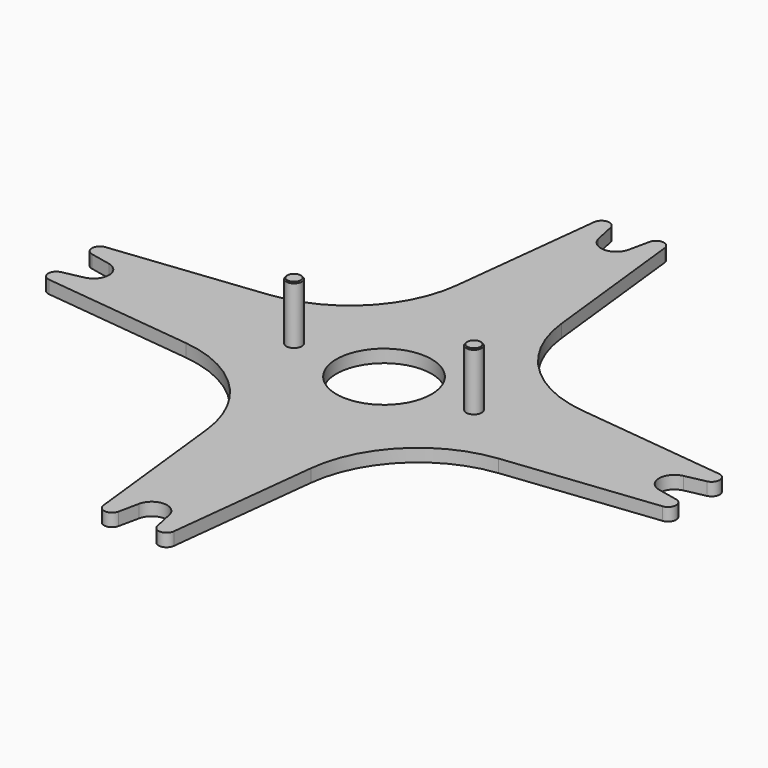
from build123d import *

# Parameters (mm, degrees)
F0_R     = 23.495
F1_DEPTH = 6.35
F2_R     = 3.81
F3_DEPTH = 28.575
F4_SIZE  = 0.508


with BuildPart() as f1:
    # F0 (on Top) → F1 (new body)
    with BuildSketch(Plane.XY):
        with BuildLine():
            ThreePointArc((-141.924887, 7.453309), (-135.89, 0), (-141.924887, -7.453309))
            Line((-141.924887, -7.453309), (-151.954259, -9.586279))
            ThreePointArc((-151.954259, -9.586279), (-155.087703, -13.654877), (-151.573483, -17.399504))
            Line((-151.573483, -17.399504), (-77.281462, -25.767059))
            ThreePointArc((-77.281462, -25.767059), (-42.510822, -42.510822), (-25.767059, -77.281462))
            Line((-25.767059, -77.281462), (-17.399504, -151.573483))
            ThreePointArc((-17.399504, -151.573483), (-13.654877, -155.087703), (-9.586279, -151.954259))
            Line((-9.586279, -151.954259), (-7.453309, -141.924887))
            ThreePointArc((-7.453309, -141.924887), (0, -135.89), (7.453309, -141.924887))
            Line((7.453309, -141.924887), (9.586279, -151.954259))
            ThreePointArc((9.586279, -151.954259), (13.654877, -155.087703), (17.399504, -151.573483))
            Line((17.399504, -151.573483), (25.767059, -77.281462))
            ThreePointArc((25.767059, -77.281462), (42.510822, -42.510822), (77.281462, -25.767059))
            Line((77.281462, -25.767059), (151.573483, -17.399504))
            ThreePointArc((151.573483, -17.399504), (155.087703, -13.654877), (151.954259, -9.586279))
            Line((151.954259, -9.586279), (141.924887, -7.453309))
            ThreePointArc((141.924887, -7.453309), (135.89, 0), (141.924887, 7.453309))
            Line((141.924887, 7.453309), (151.954259, 9.586279))
            ThreePointArc((151.954259, 9.586279), (155.087703, 13.654877), (151.573483, 17.399504))
            Line((151.573483, 17.399504), (77.281462, 25.767059))
            ThreePointArc((77.281462, 25.767059), (42.510822, 42.510822), (25.767059, 77.281462))
            Line((25.767059, 77.281462), (17.399504, 151.573483))
            ThreePointArc((17.399504, 151.573483), (13.654877, 155.087703), (9.586279, 151.954259))
            Line((9.586279, 151.954259), (7.453309, 141.924887))
            ThreePointArc((7.453309, 141.924887), (0, 135.89), (-7.453309, 141.924887))
            Line((-7.453309, 141.924887), (-9.586279, 151.954259))
            ThreePointArc((-9.586279, 151.954259), (-13.654877, 155.087703), (-17.399504, 151.573483))
            Line((-17.399504, 151.573483), (-25.767059, 77.281462))
            ThreePointArc((-25.767059, 77.281462), (-42.510822, 42.510822), (-77.281462, 25.767059))
            Line((-77.281462, 25.767059), (-151.573483, 17.399504))
            ThreePointArc((-151.573483, 17.399504), (-155.087703, 13.654877), (-151.954259, 9.586279))
            Line((-151.954259, 9.586279), (-141.924887, 7.453309))
        make_face()
        Circle(F0_R, mode=Mode.SUBTRACT)
    extrude(amount=F1_DEPTH)

    # F2 (on face) → F3 (join)
    with BuildSketch(Plane.XY.offset(6.35)):
        with Locations((-44.45, 0)):
            Circle(F2_R)
        with Locations((44.45, 0)):
            Circle(F2_R)
    extrude(amount=F3_DEPTH)

    # F4
    f4_edges = [f1.edges().sort_by_distance(p)[0] for p in [
        (-48.26, 0, 34.925),
        (40.64, 0, 34.925),
    ]]
    chamfer(f4_edges, length=F4_SIZE)


solid = f1.part
